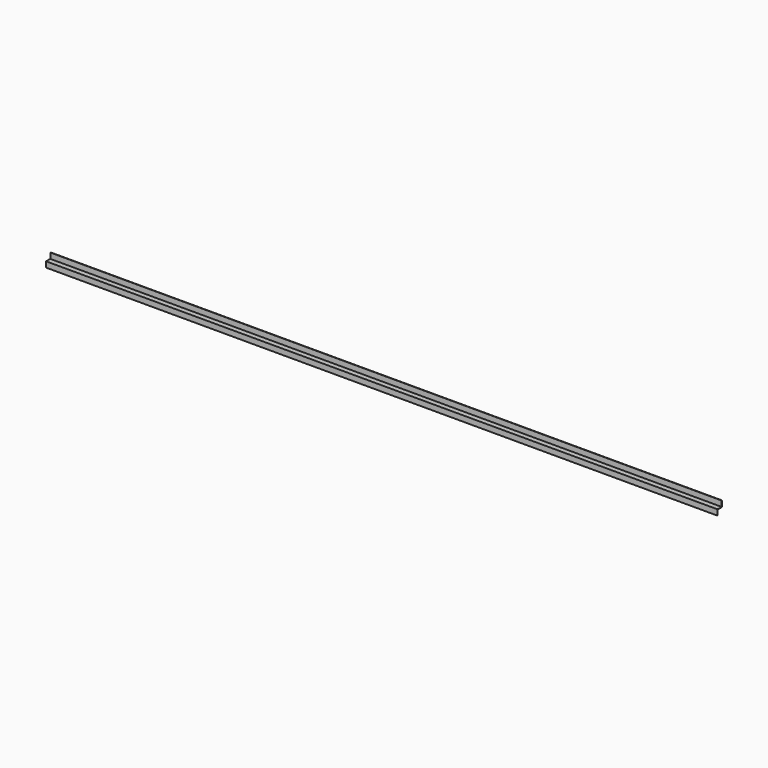
from build123d import *

# Parameters (mm, degrees)
F1_DEPTH = 3048


with BuildPart() as f1:
    # F0 (on Right) → F1 (new body)
    with BuildSketch(Plane.YZ):
        Polygon((-12.7, 0.238485), (-12.7, -25.161515), (-11.0871, -25.161515), (-11.0871, -1.374415), (12.7, -1.374415), (12.7, 0.238485), (12.7, 25.638485), (11.0871, 25.638485), (11.0871, 0.238485), align=None)
    extrude(amount=F1_DEPTH)


solid = f1.part
